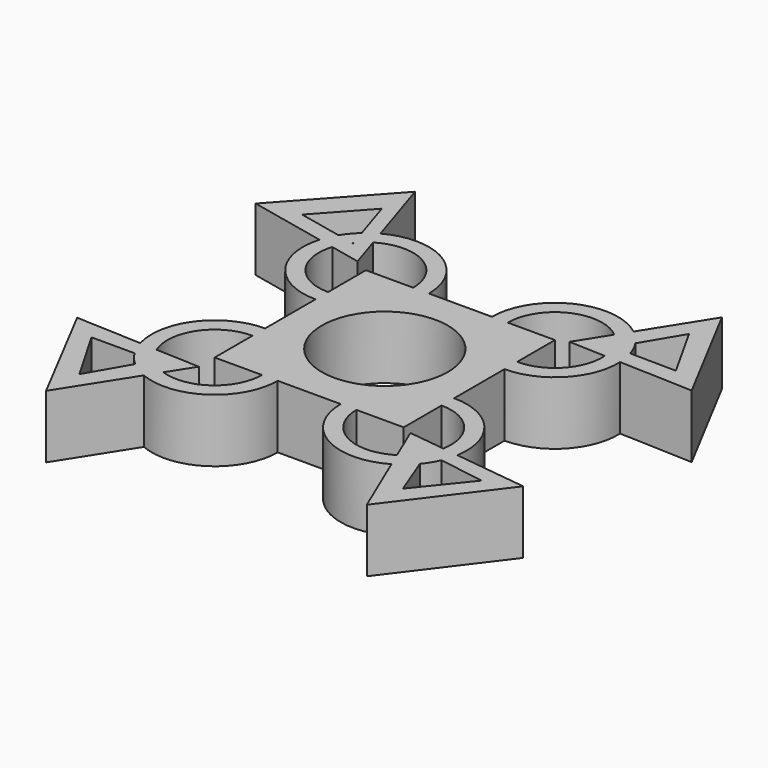
from build123d import *

# Parameters (mm, degrees)
F0_W     = 38.1
F0_H     = 38.1
F0_R     = 12.7
F1_DEPTH = 6.35
F2_R     = 12.7
F2_R_2   = 9.525
F3_DEPTH = 12.7
F5_DEPTH = 12.7


with BuildPart() as f1:
    # F0 (on Top) → F1 (new body, symmetric)
    with BuildSketch(Plane.XY):
        Rectangle(F0_W, F0_H)
        Circle(F0_R, mode=Mode.SUBTRACT)
    extrude(amount=F1_DEPTH, both=True)

    # F2 (on face) → F3 (join)
    with BuildSketch(Plane.XY.offset(6.35)):
        with Locations((-19.05, 19.05)):
            Circle(F2_R)
        with Locations((-19.05, 19.05)):
            Circle(F2_R_2, mode=Mode.SUBTRACT)
        with Locations((19.05, 19.05)):
            Circle(F2_R)
        with Locations((19.05, 19.05)):
            Circle(F2_R_2, mode=Mode.SUBTRACT)
        with Locations((19.05, -19.05)):
            Circle(F2_R)
        with Locations((19.05, -19.05)):
            Circle(F2_R_2, mode=Mode.SUBTRACT)
        with Locations((-19.05, -19.05)):
            Circle(F2_R)
        with Locations((-19.05, -19.05)):
            Circle(F2_R_2, mode=Mode.SUBTRACT)
    extrude(amount=-F3_DEPTH)

    # F4 (on face) → F5 (join)
    with BuildSketch(Plane.XY.offset(6.35)):
        Polygon((34.739992, 41.507824), (21.224035, 20.002501), (46.606169, 19.05), align=None)
        Polygon((40.44469, 22.77462), (27.74573, 22.937145), (34.235961, 33.853505), align=None, mode=Mode.SUBTRACT)
        Polygon((46.286524, -22.998363), (21.077219, -19.891765), (30.991478, -43.276963), align=None)
        Polygon((31.997671, -35.439923), (27.421833, -23.59291), (39.969566, -25.553625), align=None, mode=Mode.SUBTRACT)
        Polygon((-32.67766, -44.491031), (-19.05, -23.056319), (-44.426835, -21.971775), align=None)
        Polygon((-38.485192, -25.785192), (-25.785192, -25.785192), (-32.135192, -36.783715), align=None, mode=Mode.SUBTRACT)
        Polygon((-21.969239, 20.593261), (-29.732018, 44.777952), (-46.795185, 25.962843), align=None)
        Polygon((-30.201157, 36.994885), (-26.319768, 24.902539), (-38.732741, 27.58733), align=None, mode=Mode.SUBTRACT)
    extrude(amount=-F5_DEPTH)


solid = f1.part
